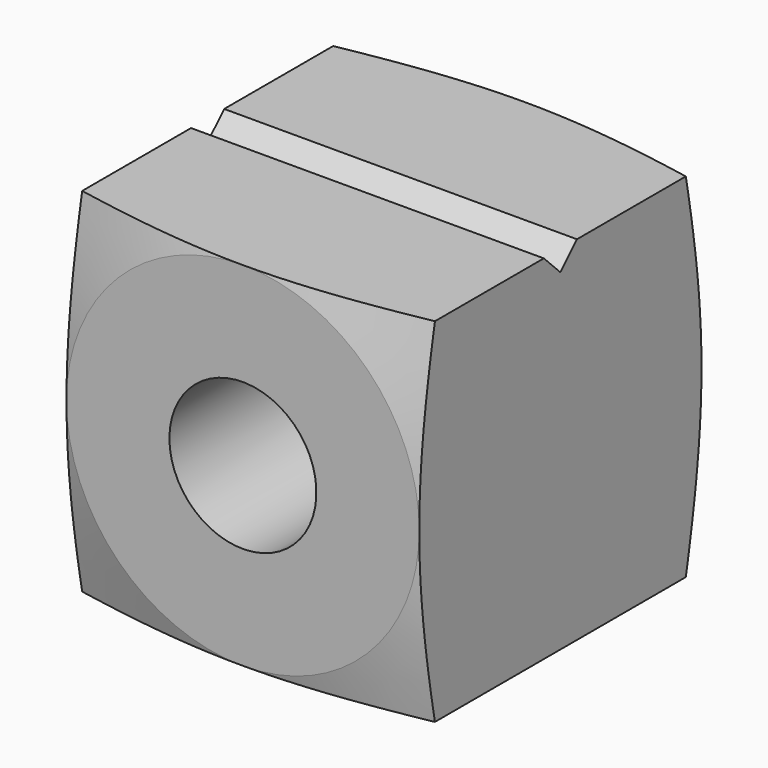
from build123d import *

# Parameters (mm, degrees)
F0_W     = 19.05
F0_H     = 19.05
F1_DEPTH = 9.525
F5_R     = 3.96875
F6_DEPTH = 9.525
F9_DEPTH = 19.05


with BuildPart() as f1:
    # F0 (on Front) → F1 (new body)
    with BuildSketch(Plane.XZ):
        Rectangle(F0_W, F0_H)
    extrude(amount=F1_DEPTH)

    # F3 (on Right) → F4 (revolve, cut)
    with BuildSketch(Plane.YZ):
        Polygon((-2.8980535523, 20.3406831001), (0, 9.525), (0, 20.3406831001), align=None)
    revolve(axis=Axis((0, 0, 0), (0, 1, 0)), mode=Mode.SUBTRACT)

    # F5 (on face) → F6 (cut)
    with BuildSketch(Plane(origin=(0, 0, 0), x_dir=(-1, 0, 0), z_dir=(0, 1, 0))):
        Circle(F5_R)
    extrude(amount=-F6_DEPTH, mode=Mode.SUBTRACT)

    # F7: F1 across face


with BuildPart() as f1_1:
    add(f1.part)
    add(f1.part.mirror(Plane.XZ.offset(9.525)))

    # F8 (on face) → F9 (cut)
    with BuildSketch(Plane(origin=(-9.525, 0, 0), x_dir=(0, -1, 0), z_dir=(-1, 0, 0))):
        Polygon((8.4074, 9.525), (9.525, 8.4074), (10.6426, 9.525), align=None)
    extrude(amount=-F9_DEPTH, mode=Mode.SUBTRACT)


solid = f1_1.part
